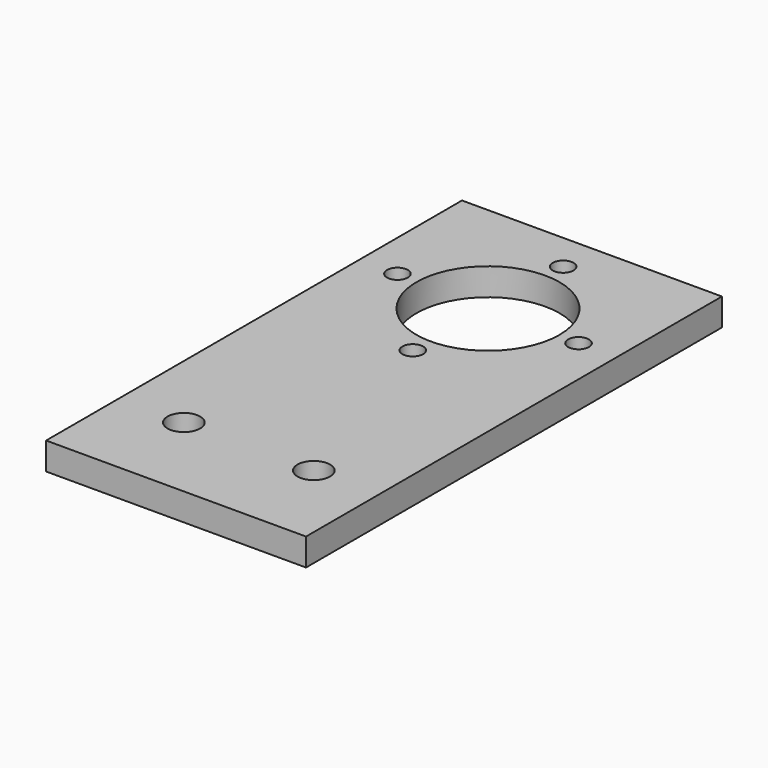
from build123d import *

# Parameters (mm, degrees)
F0_W     = 50.8
F0_H     = 101.6
F0_R     = 3.175
F0_R_2   = 2.032
F0_R_3   = 13.97
F1_DEPTH = 5.334
F2_R     = 3.175
F3_DEPTH = 25.4


with BuildPart() as f1:
    # F0 (on Top) → F1 (new body)
    with BuildSketch(Plane.XY):
        with Locations((-18.054181, 35.379866)):
            Rectangle(F0_W, F0_H)
        with Locations((-30.754181, 2.359866)):
            Circle(F0_R, mode=Mode.SUBTRACT)
        with Locations((-5.354181, 2.359866)):
            Circle(F0_R, mode=Mode.SUBTRACT)
        with Locations((-18.377712, 42.822066)):
            Circle(F0_R_2, mode=Mode.SUBTRACT)
        with Locations((-36.011981, 61.103397)):
            Circle(F0_R_2, mode=Mode.SUBTRACT)
        with Locations((-18.054181, 60.779866)):
            Circle(F0_R_3, mode=Mode.SUBTRACT)
        with Locations((-0.096381, 60.456336)):
            Circle(F0_R_2, mode=Mode.SUBTRACT)
        with Locations((-17.730651, 78.737666)):
            Circle(F0_R_2, mode=Mode.SUBTRACT)
    extrude(amount=F1_DEPTH)

    # F2 (on face) → F3 (cut)
    with BuildSketch(Plane(origin=(0, 0, 0), x_dir=(1, 0, 0), z_dir=(0, 0, -1))):
        with Locations((-5.354181, -2.359866)):
            Circle(F2_R)
        with Locations((-30.754181, -2.359866)):
            Circle(F2_R)
    extrude(amount=-F3_DEPTH, mode=Mode.SUBTRACT)


solid = f1.part
